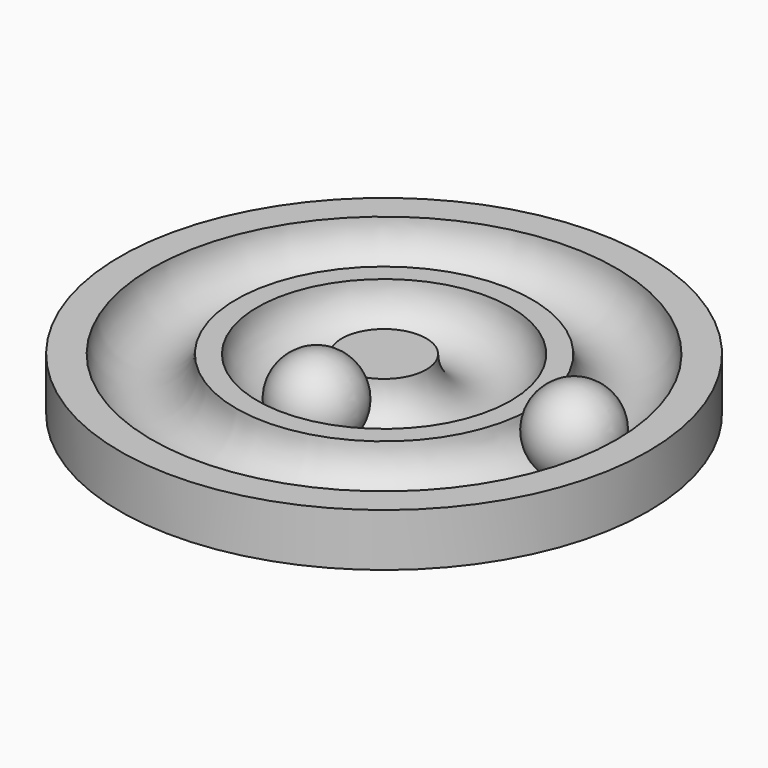
from build123d import *

# Parameters (mm, degrees)
TORUS001_R     = 8
TORUS_R        = 8
CYLINDER_R     = 50
CYLINDER_DEPTH = 10


with BuildPart() as torus001:
    # Torus001 → Torus001 (revolve)
    with BuildSketch(Plane(origin=(0, 0, 10), x_dir=(1, 0, 0), z_dir=(0, -1, 0))):
        with Locations((36, 0)):
            Circle(TORUS001_R)
    revolve(axis=Axis((0, 0, 10), (0, 0, 1)))


with BuildPart() as fusion:
    # Torus → Torus (revolve)
    with BuildSketch(Plane(origin=(0, 0, 10), x_dir=(1, 0, 0), z_dir=(0, -1, 0))):
        with Locations((16, 0)):
            Circle(TORUS_R)
    revolve(axis=Axis((0, 0, 10), (0, 0, 1)))

    # Fusion: union Torus001
    add(torus001.part)


with BuildPart() as cut:
    # Cylinder → Cylinder (new body)
    with BuildSketch(Plane.XY):
        Circle(CYLINDER_R)
    extrude(amount=CYLINDER_DEPTH)

    # Cut: cut Fusion
    add(fusion.part, mode=Mode.SUBTRACT)


with BuildPart() as esfera:
    # Sphere → Sphere (revolve)
    with BuildSketch(Plane(origin=(36, 0, 9), x_dir=(1, 0, 0), z_dir=(0, -1, 0))):
        with BuildLine():
            ThreePointArc((0, -8), (8, 0), (0, 8))
            Line((0, 8), (0, -8))
        make_face()
    revolve(axis=Axis((36, 0, 9), (0, 0, 1)))


with BuildPart() as esfera001:
    # Sphere001 → Sphere001 (revolve)
    with BuildSketch(Plane(origin=(0, -16, 9), x_dir=(1, 0, 0), z_dir=(0, -1, 0))):
        with BuildLine():
            ThreePointArc((0, -8), (8, 0), (0, 8))
            Line((0, 8), (0, -8))
        make_face()
    revolve(axis=Axis((0, -16, 9), (0, 0, 1)))


solid = Compound([cut.part, esfera.part, esfera001.part])
